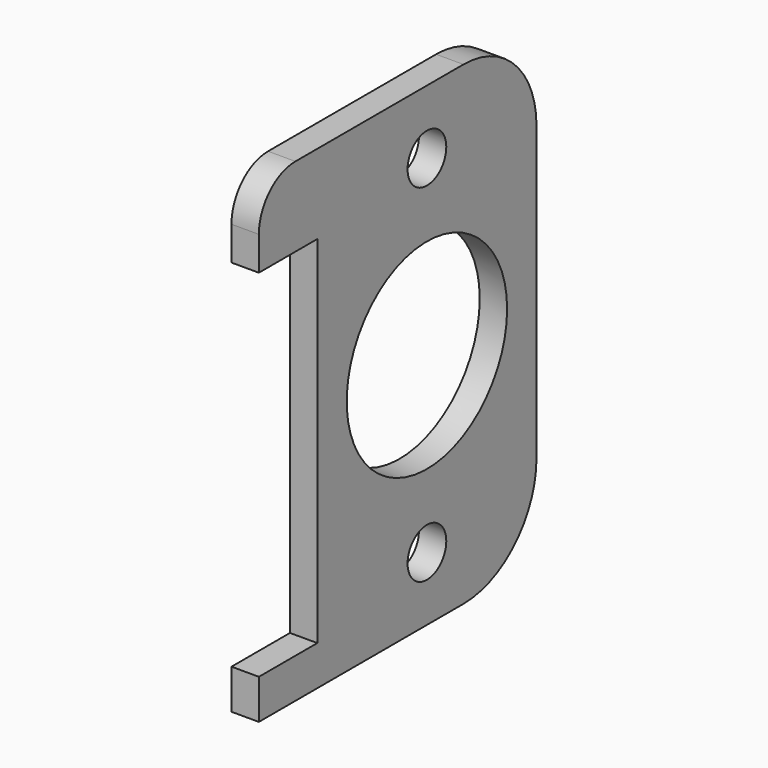
from build123d import *

# Parameters (mm, degrees)
F0_R     = 2.65
F0_R_2   = 10.975
F1_DEPTH = 3


with BuildPart() as f1:
    # F0 (on Right) → F1 (new body)
    with BuildSketch(Plane.YZ):
        with BuildLine():
            ThreePointArc((-14, 26), (-17.535534, 24.535534), (-19, 21))
            Line((-19, 21), (-19, 17.3))
            Line((-19, 17.3), (-11, 17.3))
            Line((-11, 17.3), (-11, -21.65))
            Line((-11, -21.65), (-19, -21.65))
            Line((-19, -21.65), (-19, -26))
            Line((-19, -26), (9, -26))
            ThreePointArc((9, -26), (16.071068, -23.071068), (19, -16))
            Line((19, -16), (19, 16))
            ThreePointArc((19, 16), (16.071068, 23.071068), (9, 26))
            Line((9, 26), (-14, 26))
        make_face()
        with Locations((4, -19)):
            Circle(F0_R, mode=Mode.SUBTRACT)
        with Locations((4, 0)):
            Circle(F0_R_2, mode=Mode.SUBTRACT)
        with Locations((4, 19)):
            Circle(F0_R, mode=Mode.SUBTRACT)
    extrude(amount=F1_DEPTH)


solid = f1.part
